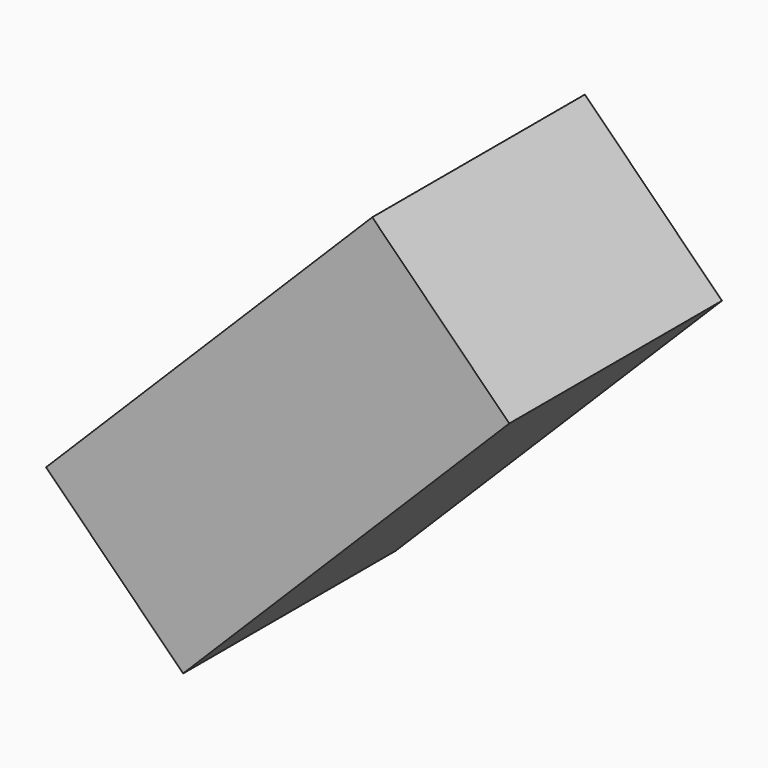
from build123d import *

# Parameters (mm, degrees)
F0_W     = 119.0322600305
F0_H     = 68.5887150466
F1_DEPTH = 50
F2_ANGLE = 45


with BuildPart() as f1:
    # F0 (on Top) → F1 (new body)
    with BuildSketch(Plane.XY):
        with Locations((-1.5423391014, -2.086693421)):
            Rectangle(F0_W, F0_H)
    extrude(amount=F1_DEPTH)


with BuildPart() as f1_1:
    # F2: moved
    add(f1.part.rotate(Axis((-61.0584691167, -2.086693421, 0), (0, -1, 0)), F2_ANGLE))


solid = f1_1.part
